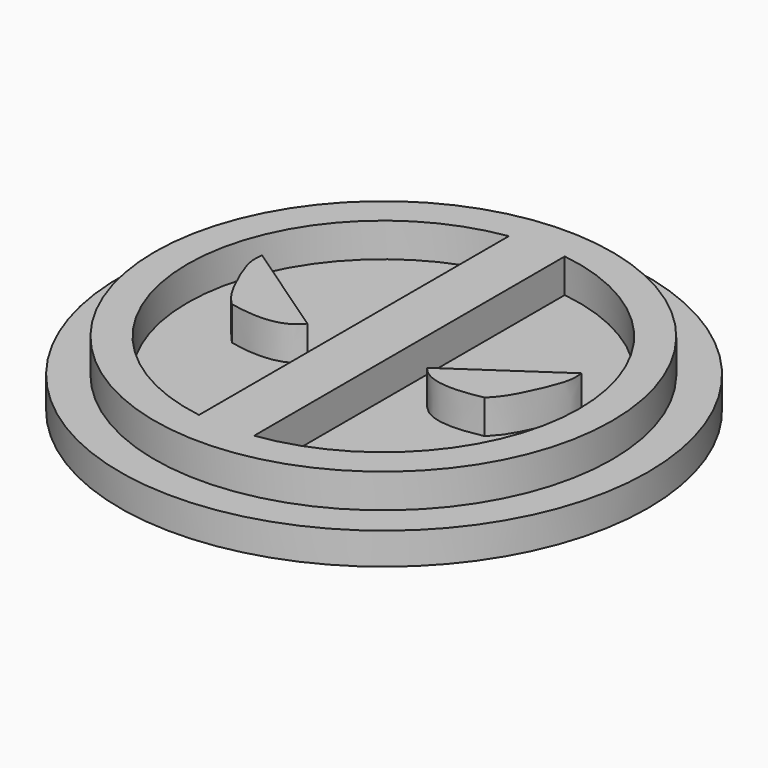
from build123d import *

# Parameters (mm, degrees)
F0_R     = 51.2537838732
F2_DEPTH = 14.732
F1_R     = 59.1419906028
F3_DEPTH = 7.112


with BuildPart() as f2:
    # F0 (on Top) → F2 (new body)
    with BuildSketch(Plane.XY):
        with Locations((0, -3.8363970816)):
            Circle(F0_R)
        with BuildLine():
            ThreePointArc((-6.5931694195, -47.2261147551), (-43.8877828419, -3.8363970816), (-6.5931694195, 39.5533205919))
            Line((-6.5931694195, 39.5533205919), (-6.5931694195, -47.2261147551))
        make_face(mode=Mode.SUBTRACT)
        with BuildLine():
            ThreePointArc((5.8489358233, 39.6598950881), (43.8877828419, -3.8363970816), (5.8489358233, -47.3326892513))
            Line((5.8489358233, -47.3326892513), (5.8489358233, 39.6598950881))
        make_face(mode=Mode.SUBTRACT)
    extrude(amount=F2_DEPTH)


with BuildPart() as f2b:
    # F0 (on Top) → F2, piece 2 (new body)
    with BuildSketch(Plane.XY):
        with BuildLine():
            Line((-13.3933164179, -8.3579476923), (-35.7876867056, 6.9109406322))
            add(Edge.make_bspline(
                [(-35.7876867056, 6.9109406322), (-35.8885303002, 5.9446186695), (-36.1374935987, 3.55895695), (-33.6221832865, -2.778508824), (-30.7379331001, -8.3718347435), (-29.0335883276, -10.1180562035), (-28.3228959888, -10.8462106436)],
                knots=[0, 0, 0, 0, 0.2035706864, 0.5025765869, 0.7925801079, 1, 1, 1, 1], degree=3))
            add(Edge.make_bspline(
                [(-13.3933164179, -8.3579476923), (-13.9252826145, -8.9550350444), (-15.1213105705, -10.2974759175), (-18.8643967054, -11.7174972903), (-24.0526727861, -11.6692015296), (-26.9425620363, -11.1122394221), (-28.3228959888, -10.8462106436)],
                knots=[0, 0, 0, 0, 0.1991569999, 0.4477678113, 0.7362304318, 1, 1, 1, 1], degree=3))
        make_face()
    extrude(amount=F2_DEPTH)


with BuildPart() as f2c:
    # F0 (on Top) → F2, piece 3 (new body)
    with BuildSketch(Plane.XY):
        with BuildLine():
            add(Edge.make_bspline(
                [(35.7876867056, 6.9109406322), (35.8885303002, 5.9446186695), (36.1374935987, 3.55895695), (33.6221832865, -2.778508824), (30.7379331001, -8.3718347435), (29.0335883276, -10.1180562035), (28.3228959888, -10.8462106436)],
                knots=[0, 0, 0, 0, 0.2035706864, 0.5025765869, 0.7925801079, 1, 1, 1, 1], degree=3))
            Line((35.7876867056, 6.9109406322), (13.3933164179, -8.3579476923))
            add(Edge.make_bspline(
                [(13.3933164179, -8.3579476923), (13.9252826145, -8.9550350444), (15.1213105705, -10.2974759175), (18.8643967054, -11.7174972903), (24.0526727861, -11.6692015296), (26.9425620363, -11.1122394221), (28.3228959888, -10.8462106436)],
                knots=[0, 0, 0, 0, 0.1991569999, 0.4477678113, 0.7362304318, 1, 1, 1, 1], degree=3))
        make_face()
    extrude(amount=F2_DEPTH)


with BuildPart() as f3:
    # F1 (on Top) → F3 (new body)
    with BuildSketch(Plane.XY):
        with Locations((0, -3.6296788603)):
            Circle(F1_R)
    extrude(amount=F3_DEPTH)


solid = Compound([f2.part, f2b.part, f2c.part, f3.part])
